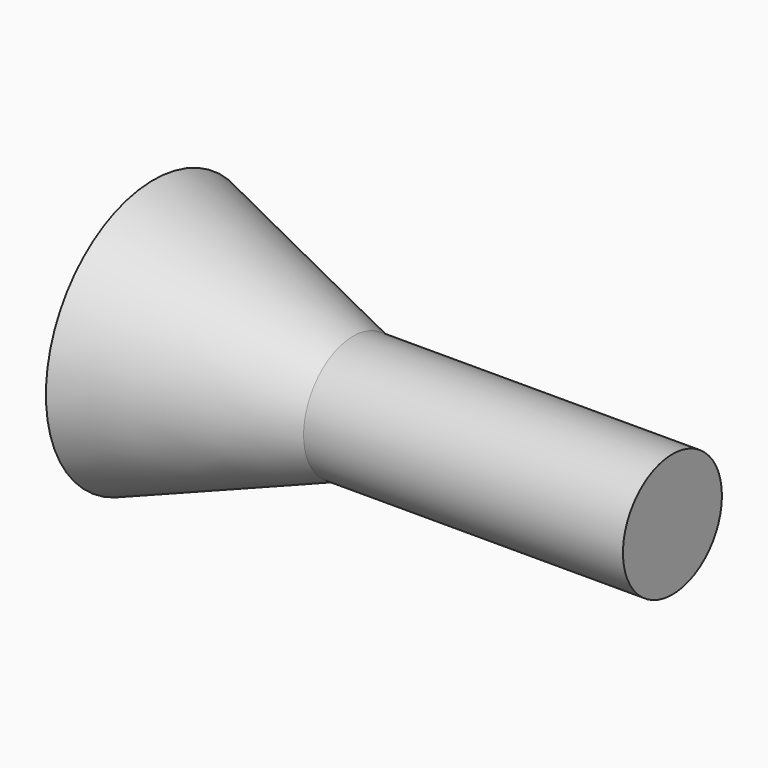
from build123d import *

# Parameters (mm, degrees)
F0_R      = 1.5494
F1_DEPTH  = 8
F1_FACE_R = 1.5494
F3_DEPTH  = 5
F3_TAPER  = -20


with BuildPart() as f1:
    # F0 (on Right) → F1 (new body)
    with BuildSketch(Plane.YZ):
        Circle(F0_R)
    extrude(amount=F1_DEPTH)

    # F1_face (on face) → F3 (join, through all)
    with BuildSketch(Plane(origin=(0, 0, 0), x_dir=(0, 1, 0), z_dir=(-1, 0, 0))):
        Circle(F1_FACE_R)
    extrude(amount=F3_DEPTH, taper=F3_TAPER)


solid = f1.part
